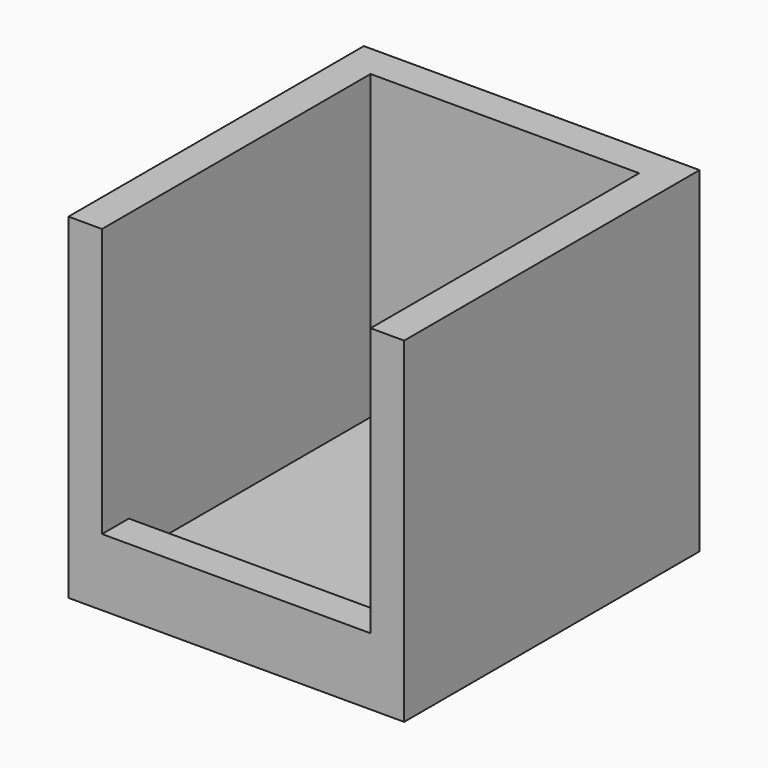
from build123d import *

# Parameters (mm, degrees)
F0_W     = 50
F0_H     = 55
F1_DEPTH = 50
F2_W     = 40
F2_H     = 45
F3_DEPTH = 45
F4_W     = 40
F4_H     = 40
F5_DEPTH = 5


with BuildPart() as f1:
    # F0 (on Top) → F1 (new body)
    with BuildSketch(Plane.XY):
        Rectangle(F0_W, F0_H)
    extrude(amount=F1_DEPTH)

    # F2 (on face) → F3 (cut)
    with BuildSketch(Plane.XY.offset(50)):
        Rectangle(F2_W, F2_H)
    extrude(amount=-F3_DEPTH, mode=Mode.SUBTRACT)

    # F4 (on face) → F5 (cut)
    with BuildSketch(Plane.XZ.offset(27.5)):
        with Locations((0, 30)):
            Rectangle(F4_W, F4_H)
    extrude(amount=-F5_DEPTH, mode=Mode.SUBTRACT)


solid = f1.part
